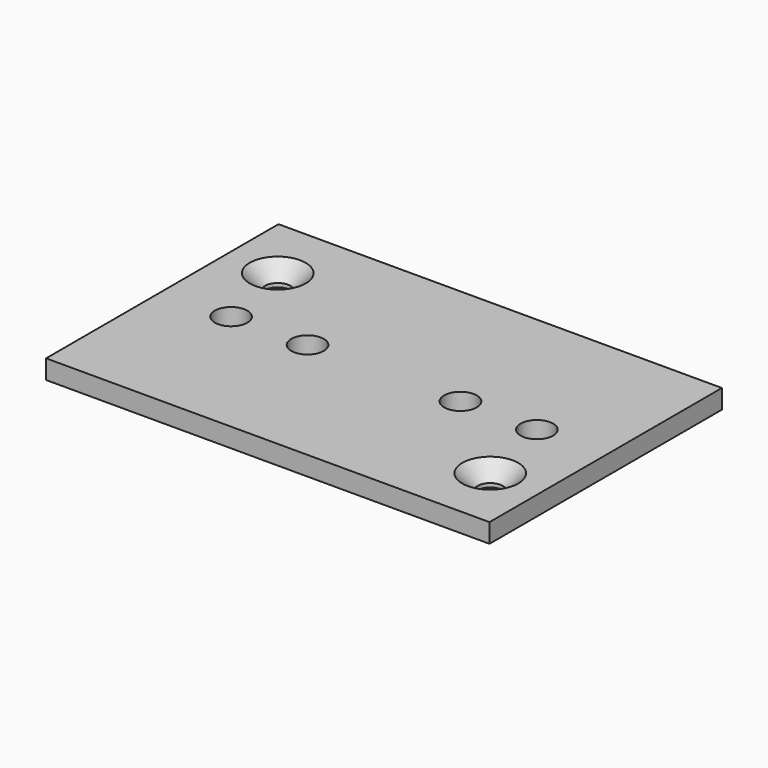
from build123d import *

# Parameters (mm, degrees)
F0_W     = 73.66
F0_H     = 48.26
F0_R     = 2.1082
F0_R_2   = 2.7051
F1_DEPTH = 3.175
F2_SIZE  = 2.54


with BuildPart() as f1:
    # F0 (on Top) → F1 (new body)
    with BuildSketch(Plane.XY):
        Rectangle(F0_W, F0_H)
        with Locations((28.321, -13.335)):
            Circle(F0_R, mode=Mode.SUBTRACT)
        with Locations((-25.4, 0)):
            Circle(F0_R_2, mode=Mode.SUBTRACT)
        with Locations((-12.7, 0)):
            Circle(F0_R_2, mode=Mode.SUBTRACT)
        with Locations((-28.321, 13.335)):
            Circle(F0_R, mode=Mode.SUBTRACT)
        with Locations((12.7, 0)):
            Circle(F0_R_2, mode=Mode.SUBTRACT)
        with Locations((25.4, 0)):
            Circle(F0_R_2, mode=Mode.SUBTRACT)
    extrude(amount=F1_DEPTH)

    # F2
    f2_edges = [f1.edges().sort_by_distance(p)[0] for p in [
        (-30.4292, 13.335, 3.175),
        (26.2128, -13.335, 3.175),
    ]]
    chamfer(f2_edges, length=F2_SIZE)


solid = f1.part
